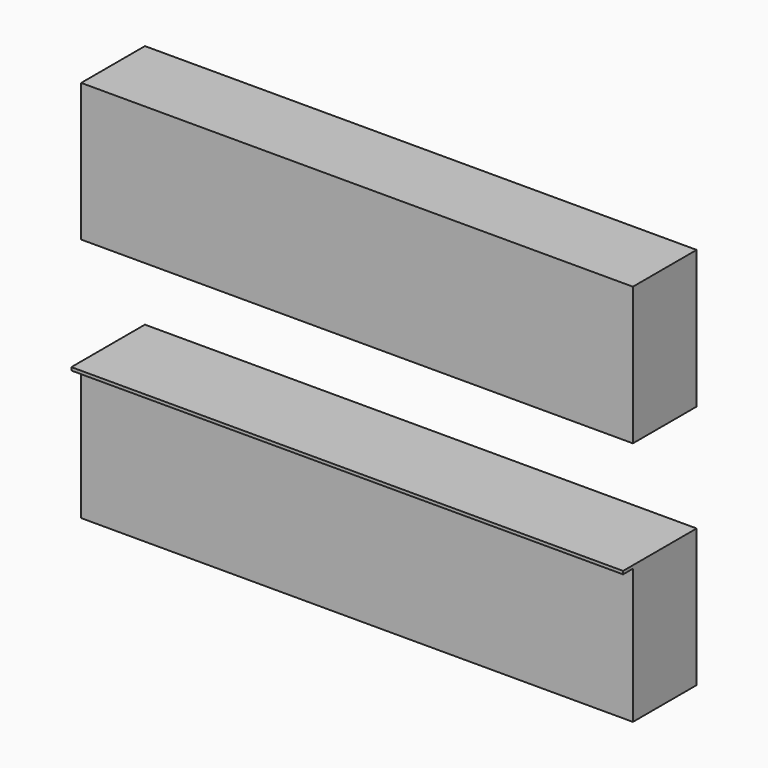
from build123d import *

# Parameters (mm, degrees)
F0_W     = 3600
F0_H     = 520
F1_DEPTH = 880
F2_START = 880
F0_H_2   = 80
F2_DEPTH = 20
F3_START = 1600
F3_DEPTH = 900


with BuildPart() as f1:
    # F0 (on Top) → F1 (new body)
    with BuildSketch(Plane.XY):
        with Locations((2.1305140108, -51.5465147062)):
            Rectangle(F0_W, F0_H)
    extrude(amount=F1_DEPTH)

    # F0 (on Top) → F2 (join)
    with BuildSketch(Plane.XY.offset(F2_START)):
        with Locations((2.1305140108, -51.5465147062)):
            Rectangle(F0_W, F0_H)
        with Locations((2.1305140108, -351.5465147062)):
            Rectangle(F0_W, F0_H_2)
    extrude(amount=F2_DEPTH)


with BuildPart() as f3:
    # F0 (on Top) → F3 (new body)
    with BuildSketch(Plane.XY.offset(F3_START)):
        with Locations((2.1305140108, -51.5465147062)):
            Rectangle(F0_W, F0_H)
    extrude(amount=F3_DEPTH)


solid = Compound([f1.part, f3.part])
